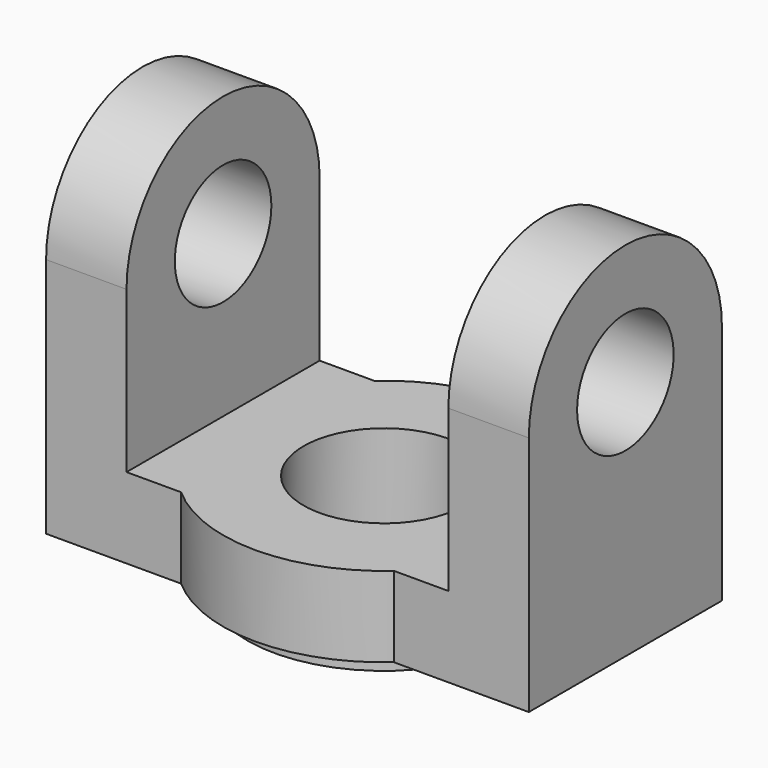
from build123d import *

# Parameters (mm, degrees)
F0_R     = 10
F1_DEPTH = 10
F3_DEPTH = 10
F5_DEPTH = 10
F6_R     = 17
F6_R_2   = 10
F7_DEPTH = 2.5


with BuildPart() as f1:
    # F0 (on Top) → F1 (new body)
    with BuildSketch(Plane.XY):
        with BuildLine():
            Line((13.2287565553, 0), (0, 0))
            Line((0, 0), (-13.2287565553, 0))
            ThreePointArc((-13.2287565553, 0), (-20, -15), (-13.2287565553, -30))
            Line((-13.2287565553, -30), (13.2287565553, -30))
            ThreePointArc((13.2287565553, -30), (18.2287565553, -23.2287565553), (20, -15))
            ThreePointArc((20, -15), (18.2287565553, -6.7712434447), (13.2287565553, 0))
        make_face()
        with Locations((0, -15)):
            Circle(F0_R, mode=Mode.SUBTRACT)
        with BuildLine():
            Line((-13.2287565553, 0), (0, 0))
            Line((0, 0), (13.2287565553, 0))
            ThreePointArc((13.2287565553, 0), (0, 5), (-13.2287565553, 0))
        make_face()
        with BuildLine():
            ThreePointArc((-13.2287565553, -30), (-20, -15), (-13.2287565553, 0))
            Line((-13.2287565553, 0), (-30, 0))
            Line((-30, 0), (-30, -30))
            Line((-30, -30), (-13.2287565553, -30))
        make_face()
        with BuildLine():
            Line((30, 0), (13.2287565553, 0))
            ThreePointArc((13.2287565553, 0), (18.2287565553, -6.7712434447), (20, -15))
            ThreePointArc((20, -15), (18.2287565553, -23.2287565553), (13.2287565553, -30))
            Line((13.2287565553, -30), (30, -30))
            Line((30, -30), (30, 0))
        make_face()
        with BuildLine():
            Line((13.2287565553, -30), (-13.2287565553, -30))
            ThreePointArc((-13.2287565553, -30), (0, -35), (13.2287565553, -30))
        make_face()
    extrude(amount=F1_DEPTH)

    # F2 (on face) → F3 (join)
    with BuildSketch(Plane.YZ.offset(30)):
        with BuildLine():
            Line((-30, 30), (-30, 10))
            Line((-30, 10), (0, 10))
            Line((0, 10), (0, 30))
            Line((0, 30), (-7.5, 30))
            ThreePointArc((-7.5, 30), (-15, 22.5), (-22.5, 30))
            Line((-22.5, 30), (-30, 30))
        make_face()
        with BuildLine():
            ThreePointArc((0, 30), (-15, 45), (-30, 30))
            Line((-30, 30), (-22.5, 30))
            ThreePointArc((-22.5, 30), (-15, 37.5), (-7.5, 30))
            Line((-7.5, 30), (0, 30))
        make_face()
    extrude(amount=-F3_DEPTH)

    # F4 (on face) → F5 (join)
    with BuildSketch(Plane(origin=(-30, 0, 0), x_dir=(0, -1, 0), z_dir=(-1, 0, 0))):
        with BuildLine():
            Line((0, 30), (0, 10))
            Line((0, 10), (30, 10))
            Line((30, 10), (30, 30))
            Line((30, 30), (22.5, 30))
            ThreePointArc((22.5, 30), (15, 22.5), (7.5, 30))
            Line((7.5, 30), (0, 30))
        make_face()
        with BuildLine():
            ThreePointArc((30, 30), (15, 45), (0, 30))
            Line((0, 30), (7.5, 30))
            ThreePointArc((7.5, 30), (15, 37.5), (22.5, 30))
            Line((22.5, 30), (30, 30))
        make_face()
    extrude(amount=-F5_DEPTH)

    # F6 (on face) → F7 (join)
    with BuildSketch(Plane(origin=(0, 0, 0), x_dir=(1, 0, 0), z_dir=(0, 0, -1))):
        with Locations((0, 15)):
            Circle(F6_R)
        with Locations((0, 15)):
            Circle(F6_R_2, mode=Mode.SUBTRACT)
    extrude(amount=F7_DEPTH)


solid = f1.part
